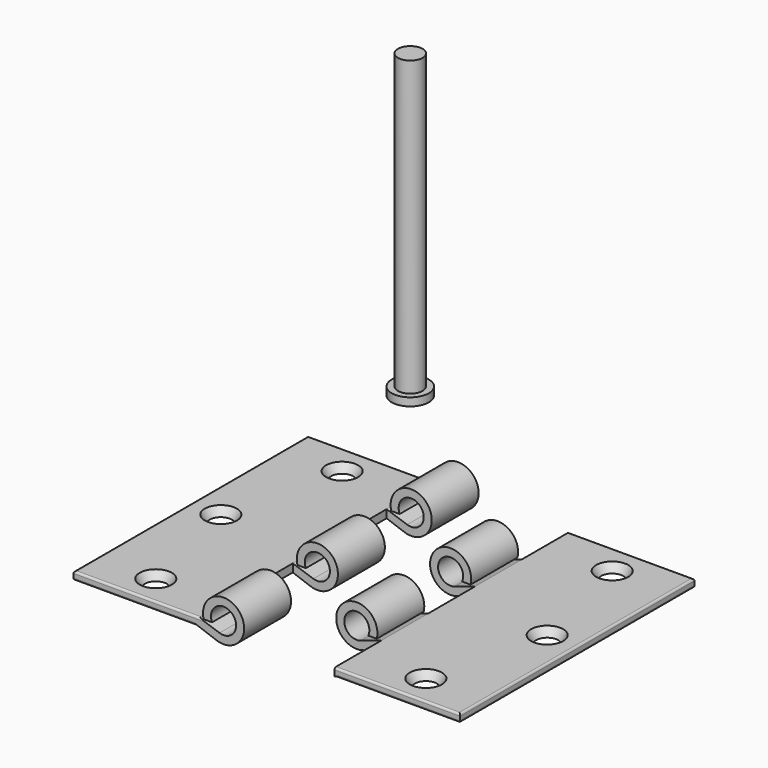
from build123d import *

# Parameters (mm, degrees)
F0_W      = 125
F0_H      = 8
F1_DEPTH  = 292
F3_R      = 11
F2_R      = 16
F8_R      = 2
F2_W      = 80
F2_H      = 58.4
F10_DEPTH = 50
F11_W     = 65
F11_H     = 58.4
F12_DEPTH = 62.5
F13_R     = 18.5
F14_DEPTH = 8
F15_R     = 12.25
F16_DEPTH = 292


with BuildPart() as f1:
    # F0 (on Front) → F1 (new body)
    with BuildSketch(Plane.XZ):
        Rectangle(F0_W, F0_H)
        with BuildLine():
            Line((62.5, 4), (62.5, -4))
            Line((62.5, -4), (80.0878196661, -10.2996605775))
            ThreePointArc((80.0878196661, -10.2996605775), (102.1845976555, 22.7683073126), (67.120246264, 4))
            Line((67.120246264, 4), (75.5427898684, 4))
            ThreePointArc((75.5427898684, 4), (95.4363374083, 18.2220183642), (83.0413063969, -2.8583574935))
            Line((83.0413063969, -2.8583574935), (62.5, 4))
        make_face()
    extrude(amount=F1_DEPTH)

    # F3 (on face) → F4 section 0
    with BuildSketch(Plane(origin=(0, 0, -4), x_dir=(1, 0, 0), z_dir=(0, 0, -1))):
        with Locations((-32.5, 146)):
            Circle(F3_R)
    # F2 (on face) → F4 section 1
    with BuildSketch(Plane.XY.offset(4)):
        with Locations((-32.5, -146)):
            Circle(F2_R)
    loft(mode=Mode.SUBTRACT)

    # F3 (on face) → F5 section 0
    with BuildSketch(Plane(origin=(0, 0, -4), x_dir=(1, 0, 0), z_dir=(0, 0, -1))):
        with Locations((-4.5, 262)):
            Circle(F3_R)
    # F2 (on face) → F5 section 1
    with BuildSketch(Plane.XY.offset(4)):
        with Locations((-4.5, -262)):
            Circle(F2_R)
    loft(mode=Mode.SUBTRACT)

    # F3 (on face) → F6 section 0
    with BuildSketch(Plane(origin=(0, 0, -4), x_dir=(1, 0, 0), z_dir=(0, 0, -1))):
        with Locations((-4.5, 30)):
            Circle(F3_R)
    # F2 (on face) → F6 section 1
    with BuildSketch(Plane.XY.offset(4)):
        with Locations((-4.5, -30)):
            Circle(F2_R)
    loft(mode=Mode.SUBTRACT)

    # F8
    f8_edges = [f1.edges().sort_by_distance(p)[0] for p in [
        (0, -292, 4),
        (0, -292, -4),
        (0, 0, 4),
        (0, 0, -4),
        (-62.5, -146, 4),
        (-62.5, -146, -4),
    ]]
    fillet(f8_edges, radius=F8_R)


with BuildPart() as f9_1:
    # F9: instance of F1
    add(f1.part.mirror(Plane.YZ.offset(130)))

    # F11 (on face) → F12 (cut, symmetric)
    with BuildSketch(Plane.XY.offset(4)):
        Polygon((197.5, -292), (197.5, -290), (197.5, -233.6), (132.5, -233.6), (132.5, -292), align=None)
        with Locations((165, -146)):
            Rectangle(F11_W, F11_H)
        Polygon((197.5, -2), (197.5, 0), (132.5, 0), (132.5, -58.4), (197.5, -58.4), align=None)
    extrude(amount=F12_DEPTH, both=True, mode=Mode.SUBTRACT)


with BuildPart() as f1_1:
    add(f1.part)

    # F2 (on face) → F10 (cut, symmetric)
    with BuildSketch(Plane.XY.offset(4)):
        with Locations((102.5, -87.6)):
            Rectangle(F2_W, F2_H)
        with Locations((102.5, -204.4)):
            Rectangle(F2_W, F2_H)
    extrude(amount=F10_DEPTH, both=True, mode=Mode.SUBTRACT)


with BuildPart() as f14:
    # F13 (on Top) → F14 (new body)
    with BuildSketch(Plane.XY):
        with Locations((-47.5367307663, 108.6319535971)):
            Circle(F13_R)
    extrude(amount=F14_DEPTH)

    # F15 (on face) → F16 (join)
    with BuildSketch(Plane.XY.offset(8)):
        with Locations((-47.5367307663, 108.6319535971)):
            Circle(F15_R)
    extrude(amount=F16_DEPTH)


solid = Compound([f9_1.part, f1_1.part, f14.part])
